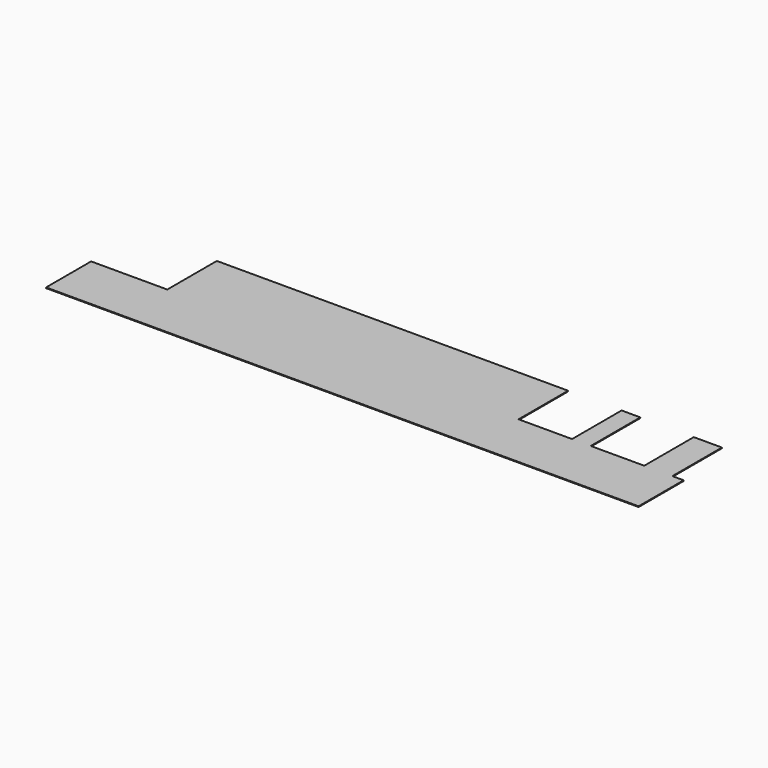
from build123d import *

# Parameters (mm, degrees)
F0_W     = 396.24
F0_H     = 69.85
F0_W_2   = 21.082
F0_W_3   = 31.75
F1_DEPTH = 0.8128


with BuildPart() as f1:
    # F0 (on Top) → F1 (new body)
    with BuildSketch(Plane.XY):
        Polygon((0, 63.5), (0, 0), (668.3375, 0), (668.3375, 63.5), (655.6375, 63.5), (623.8875, 63.5), (563.5625, 63.5), (542.4805, 63.5), (482.1555, 63.5), (85.9155, 63.5), align=None)
        with Locations((284.0355, 98.425)):
            Rectangle(F0_W, F0_H)
        with Locations((553.0215, 98.425)):
            Rectangle(F0_W_2, F0_H)
        with Locations((639.7625, 98.425)):
            Rectangle(F0_W_3, F0_H)
    extrude(amount=F1_DEPTH)


solid = f1.part
